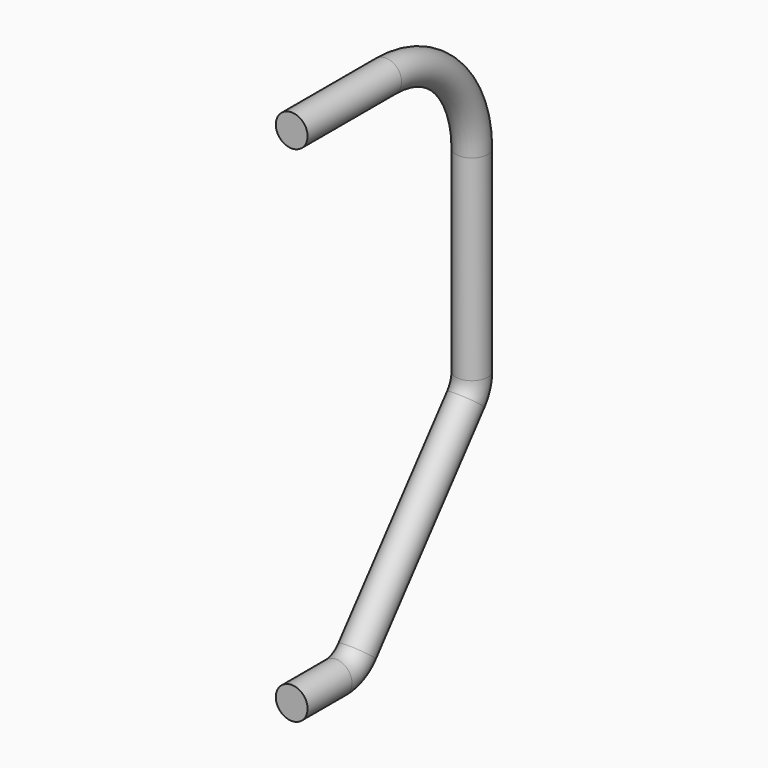
from build123d import *

# Parameters (mm, degrees)
F1_R = 3.562666


with BuildPart() as f2:
    # F2: sweep along a path in F0
    with BuildLine(Plane.YZ) as f2_path:
        Line((0, 56.111965), (26.352271, 56.111965))
        ThreePointArc((26.352271, 56.111965), (43.41285, 49.045242), (50.479574, 31.984662))
        Line((50.479574, 31.984662), (50.479574, -11.962072))
        ThreePointArc((50.479574, -11.962072), (50.037891, -14.518664), (48.764046, -16.778877))
        Line((48.764046, -16.778877), (18.347033, -54.064252))
        ThreePointArc((18.347033, -54.064252), (15.710614, -56.131067), (12.442561, -56.867447))
        Line((12.442561, -56.867447), (0, -56.867447))
    # F1 (on Front) → F2 (sweep)
    with BuildSketch(Plane.XZ):
        with Locations((0, 56.111965)):
            Circle(F1_R)
    sweep(path=f2_path.line)


solid = f2.part
